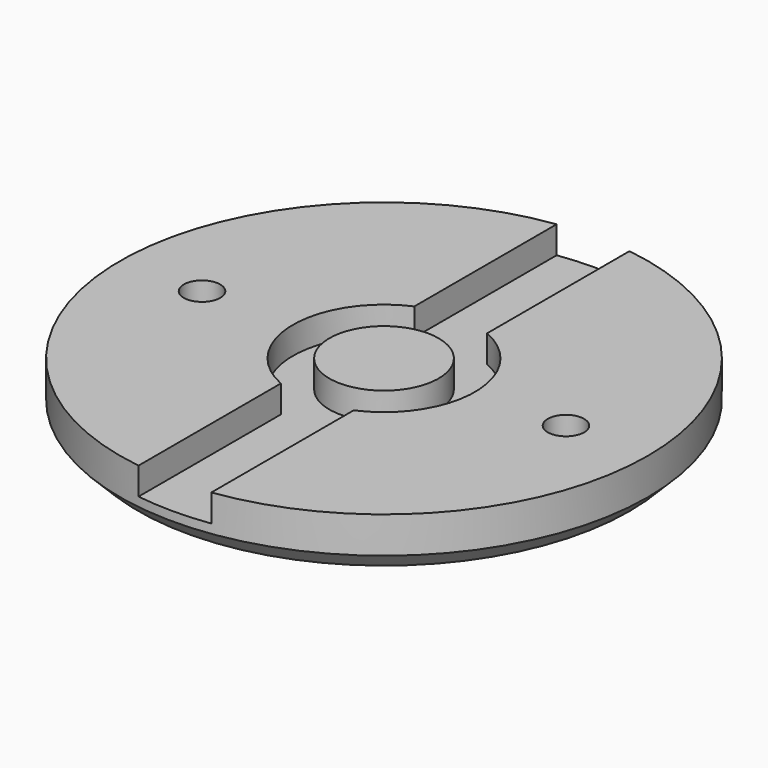
from build123d import *

# Parameters (mm, degrees)
F0_R     = 14.5
F1_DEPTH = 3
F2_W     = 4
F2_H     = 30
F3_DEPTH = 1.5
F4_R     = 5
F4_R_2   = 3
F5_DEPTH = 1.5
F6_R     = 3
F7_DEPTH = 1.5
F8_R     = 1
F9_DEPTH = 1.5
F10_SIZE = 1


with BuildPart() as f1:
    # F0 (on Top) → F1 (new body)
    with BuildSketch(Plane.XY):
        Circle(F0_R)
    extrude(amount=F1_DEPTH)

    # F2 (on face) → F3 (cut)
    with BuildSketch(Plane.XY.offset(3)):
        Rectangle(F2_W, F2_H)
    extrude(amount=-F3_DEPTH, mode=Mode.SUBTRACT)

    # F4 (on face) → F5 (cut)
    with BuildSketch(Plane.XY.offset(3)):
        Circle(F4_R)
        Circle(F4_R_2, mode=Mode.SUBTRACT)
    extrude(amount=-F5_DEPTH, mode=Mode.SUBTRACT)

    # F6 (on face) → F7 (join)
    with BuildSketch(Plane.XY.offset(3)):
        Circle(F6_R)
    extrude(amount=-F7_DEPTH)

    # F8 (on face) → F9 (cut)
    with BuildSketch(Plane.XY.offset(3)):
        with Locations((10, 0)):
            Circle(F8_R)
        with Locations((-10, 0)):
            Circle(F8_R)
    extrude(amount=-F9_DEPTH, mode=Mode.SUBTRACT)

    # F10
    f10_edges = [f1.edges().sort_by_distance(p)[0] for p in [
        (-14.5, 0, 0),
    ]]
    chamfer(f10_edges, length=F10_SIZE)


solid = f1.part
